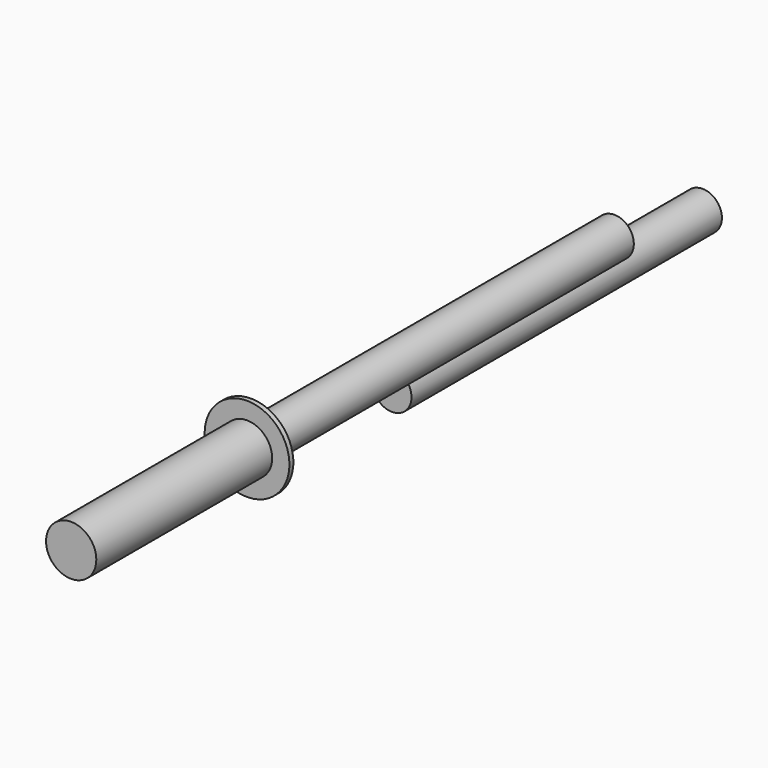
from build123d import *

# Parameters (mm, degrees)
F0_R     = 10
F1_DEPTH = 100
F2_R     = 10
F3_DEPTH = 350
F4_R     = 12.956907
F5_DEPTH = 113.284
F6_R     = 21.847815
F7_DEPTH = 2.54


with BuildPart() as f1:
    # F0 (on Front) → F1 (new body, symmetric)
    with BuildSketch(Plane.XZ):
        Circle(F0_R)
    extrude(amount=F1_DEPTH, both=True)


with BuildPart() as f3:
    # F2 (on Front) → F3 (new body)
    with BuildSketch(Plane.XZ):
        with Locations((34.601726, 40.107727)):
            Circle(F2_R)
    extrude(amount=F3_DEPTH)

    # F4 (on face) → F5 (join)
    with BuildSketch(Plane.XZ.offset(350)):
        with Locations((34.601726, 40.107727)):
            Circle(F4_R)
    extrude(amount=-F5_DEPTH)

    # F6 (on face) → F7 (join)
    with BuildSketch(Plane(origin=(0, -236.716, 0), x_dir=(-1, 0, 0), z_dir=(0, 1, 0))):
        with Locations((-34.601726, 40.107727)):
            Circle(F6_R)
    extrude(amount=F7_DEPTH)


solid = Compound([f1.part, f3.part])
